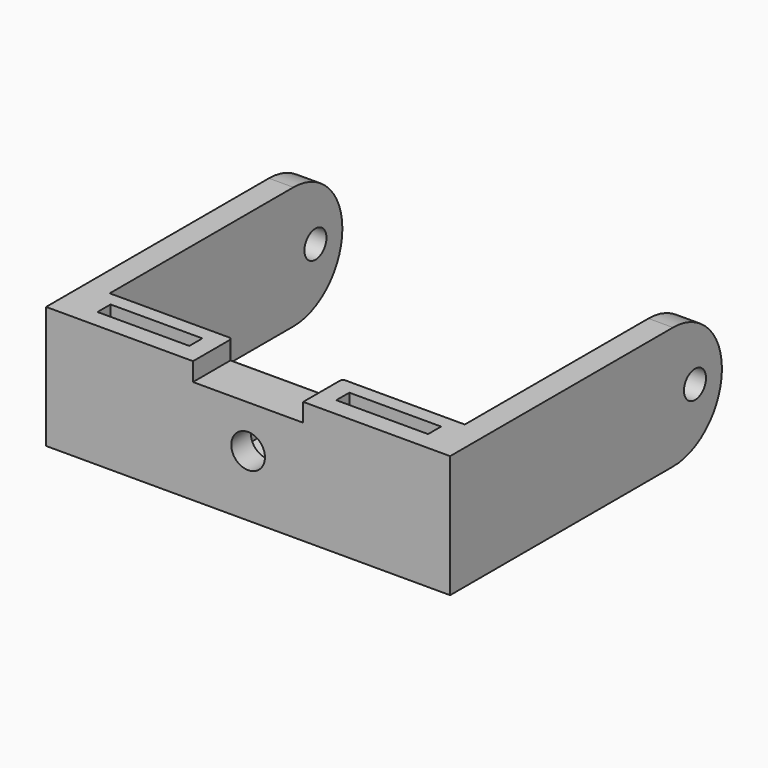
from build123d import *

# Parameters (mm, degrees)
SKETCH005_W             = 58
SKETCH005_H             = 20
SKETCH005_R             = 2.75
PAD004_DEPTH            = 8
SKETCH006_R             = 2.25
PAD005_DEPTH            = 4
POCKET005_DEPTH         = 4
SKETCH011_W             = 15
SKETCH011_H             = 2.666667
POCKET007_DEPTH         = 20
SKETCH012_W             = 18
SKETCH012_H             = 3
POCKET008_DEPTH         = 8
FILLET_R                = 0.5
BODY002_PLACEMENT_ANGLE = 180


with BuildPart() as part:
    # Sketch005 → Pad004 (new body)
    with BuildSketch(Plane.XZ):
        Rectangle(SKETCH005_W, SKETCH005_H)
        Circle(SKETCH005_R, mode=Mode.SUBTRACT)
    extrude(amount=PAD004_DEPTH)

    # Sketch006 (on Face4 of Pad004) → Pad005 (join)
    with BuildSketch(Plane(origin=(-29, 0, 0), x_dir=(0, 0, -1), z_dir=(-1, 0, 0))):
        with BuildLine():
            Line((-10, 0), (10, 0))
            Line((10, 0), (10, 45.5))
            ThreePointArc((10, 45.5), (0, 55.5), (-10, 45.5))
            Line((-10, 45.5), (-10, 0))
        make_face()
        with Locations((0, 50)):
            Circle(SKETCH006_R, mode=Mode.SUBTRACT)
    pad005 = extrude(amount=PAD005_DEPTH)

    # Mirrored003: Pad005 across YZ
    add(pad005.mirror(Plane.YZ))

    # Sketch007 (on Face5 of Mirrored003) → Pocket005 (cut)
    with BuildSketch(Plane.XZ.offset(8)):
        Polygon((4.113621, 2.375), (0, 4.75), (-4.113621, 2.375), (-4.113621, -2.375), (0, -4.75), (4.113621, -2.375), align=None)
    extrude(amount=-POCKET005_DEPTH, mode=Mode.SUBTRACT)

    # Sketch011 (on Face14 of Pocket005) → Pocket007 (cut)
    with BuildSketch(Plane(origin=(0, 0, 10), x_dir=(-1, 0, 0), z_dir=(0, 0, 1))):
        with Locations((-19.5, 4.333334)):
            Rectangle(SKETCH011_W, SKETCH011_H)
    pocket007 = extrude(amount=-POCKET007_DEPTH, mode=Mode.SUBTRACT)

    # Mirrored004: Pocket007 across YZ
    add(pocket007.mirror(Plane.YZ), mode=Mode.SUBTRACT)

    # Sketch012 (on Face3 of Mirrored004) → Pocket008 (cut)
    with BuildSketch(Plane(origin=(0, 0, 0), x_dir=(1, 0, 0), z_dir=(0, 1, 0))):
        with Locations((0, 8.5)):
            Rectangle(SKETCH012_W, SKETCH012_H)
    extrude(amount=-POCKET008_DEPTH, mode=Mode.SUBTRACT)

    # Fillet
    fillet_edges = [part.edges().sort_by_distance(p)[0] for p in [
        (0, -8, -7),
        (9, -8, -8.5),
        (-9, -8, -8.5),
    ]]
    fillet(fillet_edges, radius=FILLET_R)


with BuildPart() as part_1:
    # Body002 placement: moved
    add(part.part.moved(Location((-14.3, -30, 19.9))).rotate(Axis((-14.3, -30, 19.9), (1, 0, 0)), BODY002_PLACEMENT_ANGLE))


solid = part_1.part
